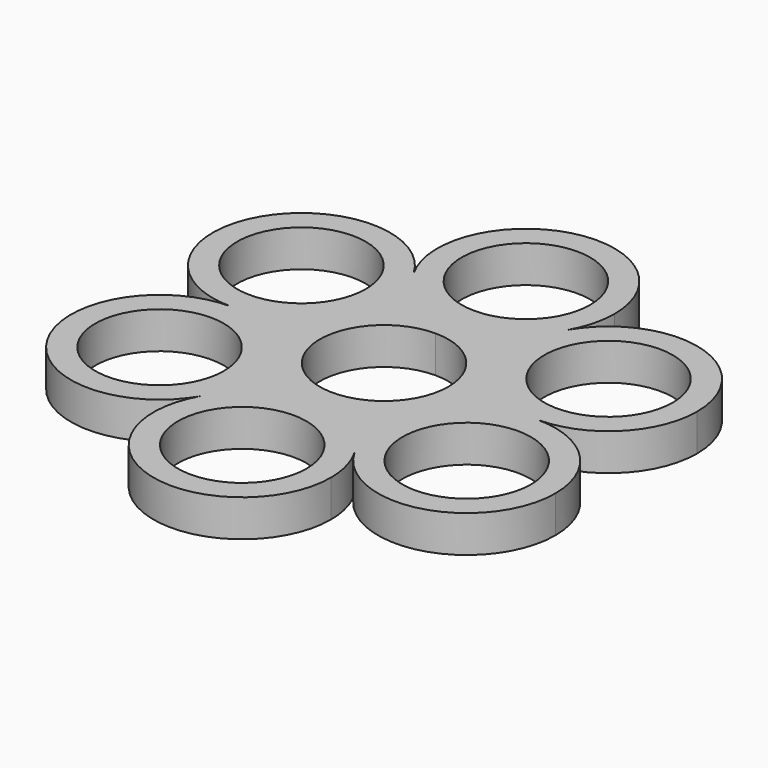
from build123d import *

# Parameters (mm, degrees)
F0_R     = 11.049
F1_DEPTH = 6.35


with BuildPart() as f1:
    # F0 (on Top) → F1 (new body)
    with BuildSketch(Plane.XY):
        with BuildLine():
            ThreePointArc((13.198227, 22.86), (7.62, 17.281773), (0, 15.24))
            ThreePointArc((0, 15.24), (-7.62, 17.281773), (-13.198227, 22.86))
            ThreePointArc((-13.198227, 22.86), (-11.675745, 19.184402), (-11.156454, 15.24))
            ThreePointArc((-11.156454, 15.24), (-15.620147, 4.463693), (-26.396454, 0))
            ThreePointArc((-26.396454, 0), (-15.620147, -4.463693), (-11.156454, -15.24))
            ThreePointArc((-11.156454, -15.24), (-11.675745, -19.184402), (-13.198227, -22.86))
            ThreePointArc((-13.198227, -22.86), (0, -15.24), (13.198227, -22.86))
            ThreePointArc((13.198227, -22.86), (13.198227, -7.62), (26.396454, 0))
            ThreePointArc((26.396454, 0), (13.198227, 7.62), (13.198227, 22.86))
        make_face()
        with BuildLine():
            ThreePointArc((13.97, 0), (-9.878282, -9.878282), (0, 13.97))
            ThreePointArc((0, 13.97), (9.878282, 9.878282), (13.97, 0))
        make_face(mode=Mode.SUBTRACT)
        with BuildLine():
            ThreePointArc((41.636454, 15.24), (30.340857, 29.96071), (13.198227, 22.86))
            ThreePointArc((13.198227, 22.86), (13.198227, 7.62), (26.396454, 0))
            ThreePointArc((26.396454, 0), (37.172762, 4.463693), (41.636454, 15.24))
        make_face()
        with Locations((26.396454, 15.24)):
            Circle(F0_R, mode=Mode.SUBTRACT)
        with BuildLine():
            ThreePointArc((13.97, 0), (9.878282, 9.878282), (0, 13.97))
            ThreePointArc((0, 13.97), (-9.878282, -9.878282), (13.97, 0))
        make_face()
        with BuildLine():
            ThreePointArc((0, 11.049), (7.812823, 7.812823), (11.049, 0))
            ThreePointArc((11.049, 0), (-7.812823, -7.812823), (0, 11.049))
        make_face(mode=Mode.SUBTRACT)
        with BuildLine():
            ThreePointArc((-13.198227, 22.86), (-7.62, 17.281773), (0, 15.24))
            ThreePointArc((0, 15.24), (7.62, 17.281773), (13.198227, 22.86))
            ThreePointArc((13.198227, 22.86), (14.72071, 26.535598), (15.24, 30.48))
            ThreePointArc((15.24, 30.48), (-3.944402, 45.20071), (-13.198227, 22.86))
        make_face()
        with BuildLine():
            ThreePointArc((11.049, 30.48), (7.812823, 22.667177), (0, 19.431))
            ThreePointArc((0, 19.431), (-7.812823, 38.292823), (11.049, 30.48))
        make_face(mode=Mode.SUBTRACT)
        with BuildLine():
            ThreePointArc((-11.156454, 15.24), (-11.675745, 19.184402), (-13.198227, 22.86))
            ThreePointArc((-13.198227, 22.86), (-39.594681, 22.86), (-26.396454, 0))
            ThreePointArc((-26.396454, 0), (-15.620147, 4.463693), (-11.156454, 15.24))
        make_face()
        with Locations((-26.396454, 15.24)):
            Circle(F0_R, mode=Mode.SUBTRACT)
        with BuildLine():
            ThreePointArc((-11.156454, -15.24), (-15.620147, -4.463693), (-26.396454, 0))
            ThreePointArc((-26.396454, 0), (-39.594682, -22.86), (-13.198227, -22.86))
            ThreePointArc((-13.198227, -22.86), (-11.675745, -19.184402), (-11.156454, -15.24))
        make_face()
        with Locations((-26.396454, -15.24)):
            Circle(F0_R, mode=Mode.SUBTRACT)
        with BuildLine():
            ThreePointArc((13.198227, -22.86), (0, -15.24), (-13.198227, -22.86))
            ThreePointArc((-13.198227, -22.86), (-3.944402, -45.20071), (15.24, -30.48))
            ThreePointArc((15.24, -30.48), (14.72071, -26.535598), (13.198227, -22.86))
        make_face()
        with Locations((0, -30.48)):
            Circle(F0_R, mode=Mode.SUBTRACT)
        with BuildLine():
            ThreePointArc((41.636454, -15.24), (37.172762, -4.463693), (26.396454, 0))
            ThreePointArc((26.396454, 0), (13.198227, -7.62), (13.198227, -22.86))
            ThreePointArc((13.198227, -22.86), (30.340857, -29.96071), (41.636454, -15.24))
        make_face()
        with Locations((26.396454, -15.24)):
            Circle(F0_R, mode=Mode.SUBTRACT)
    extrude(amount=F1_DEPTH)


solid = f1.part
